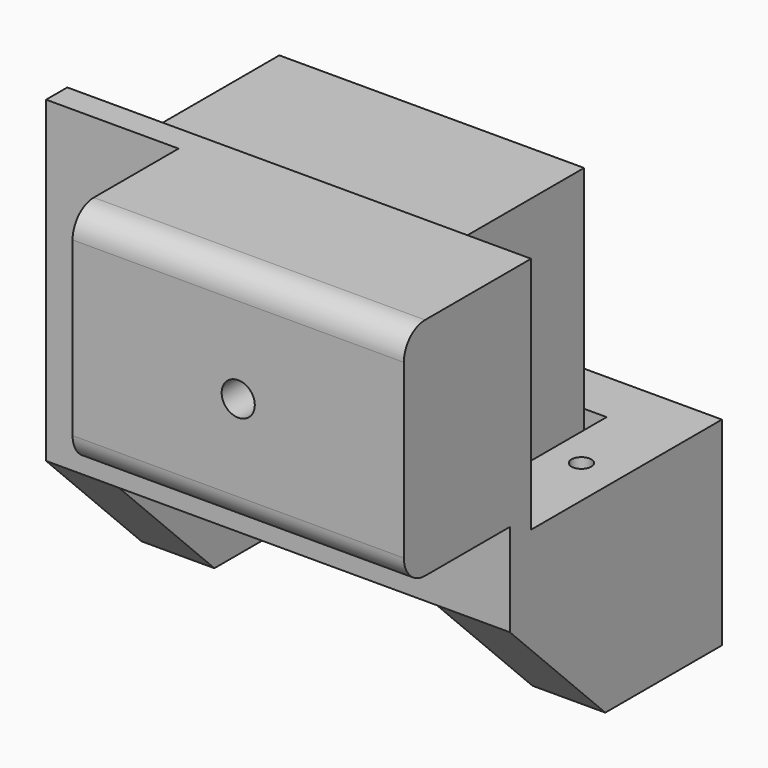
from build123d import *

# Parameters (mm, degrees)
BOX003_W               = 23
BOX003_H               = 12
BOX003_DEPTH           = 23
CYLINDER004_R          = 1.25
CYLINDER004_DEPTH      = 10
CYLINDER004_ROLL_ANGLE = 90
CYLINDER003_R          = 0.75
CYLINDER003_DEPTH      = 12
CYLINDER002_R          = 0.75
CYLINDER002_DEPTH      = 12
CYLINDER001_R          = 0.6
CYLINDER001_DEPTH      = 7
CYLINDER001_ROLL_ANGLE = 90
CYLINDER_R             = 1.1
CYLINDER_DEPTH         = 4
CYLINDER_ROLL_ANGLE    = 90
BOX_W                  = 5.5
BOX_H                  = 20
BOX_DEPTH              = 15
BOX006_W               = 35
BOX006_H               = 4
BOX006_DEPTH           = 15
BOX005_W               = 35
BOX005_H               = 2
BOX005_DEPTH           = 24
BOX004_W               = 5.5
BOX004_H               = 20
BOX004_DEPTH           = 15
CHAMFER_SIZE           = 9
BOX001_W               = 25
BOX001_H               = 10
BOX001_DEPTH           = 17
FILLET001_R            = 2


with BuildPart() as servo:
    # Box003 → Box003 (new body)
    with BuildSketch(Plane(origin=(-5, 13, -6.5), x_dir=(1, 0, 0), z_dir=(0, 0, 1))):
        with Locations((11.5, 6)):
            Rectangle(BOX003_W, BOX003_H)
    extrude(amount=BOX003_DEPTH)


with BuildPart() as cylinder004:
    # Cylinder004 → Cylinder004 (new body)
    with BuildSketch(Plane.XY):
        Circle(CYLINDER004_R)
    extrude(amount=CYLINDER004_DEPTH)


with BuildPart() as cylinder004_1:
    # Cylinder004 roll: moved
    add(cylinder004.part.rotate(Axis((0, 0, 0), (1, 0, 0)), CYLINDER004_ROLL_ANGLE))


with BuildPart() as cylinder004_2:
    # Cylinder004 placement: moved
    add(cylinder004_1.part.moved(Location((11.5, 10, 9))))


with BuildPart() as cylinder003:
    # Cylinder003 → Cylinder003 (new body)
    with BuildSketch(Plane(origin=(29, 0, 0), x_dir=(1, 0, 0), z_dir=(0, 0, 1))):
        Circle(CYLINDER003_R)
    extrude(amount=CYLINDER003_DEPTH)


with BuildPart() as fusion003:
    # Cylinder002 → Cylinder002 (new body)
    with BuildSketch(Plane.XY):
        Circle(CYLINDER002_R)
    extrude(amount=CYLINDER002_DEPTH)

    # Fusion003: union Cylinder003
    add(cylinder003.part)


with BuildPart() as fusion003_1:
    # Fusion003 placement: moved
    add(fusion003.part.moved(Location((-8, 21, -12))))


with BuildPart() as cylinder001:
    # Cylinder001 → Cylinder001 (new body)
    with BuildSketch(Plane.XY):
        Circle(CYLINDER001_R)
    extrude(amount=CYLINDER001_DEPTH)


with BuildPart() as cylinder001_1:
    # Cylinder001 roll: moved
    add(cylinder001.part.rotate(Axis((0, 0, 0), (1, 0, 0)), CYLINDER001_ROLL_ANGLE))


with BuildPart() as cylinder001_2:
    # Cylinder001 placement: moved
    add(cylinder001_1.part.moved(Location((0, 30.5, 0))))


with BuildPart() as fusion001:
    # Cylinder → Cylinder (new body)
    with BuildSketch(Plane.XY):
        Circle(CYLINDER_R)
    extrude(amount=CYLINDER_DEPTH)


with BuildPart() as fusion001_1:
    # Cylinder roll: moved
    add(fusion001.part.rotate(Axis((0, 0, 0), (1, 0, 0)), CYLINDER_ROLL_ANGLE))


with BuildPart() as fusion001_2:
    # Cylinder placement: moved
    add(fusion001_1.part.moved(Location((0, 30.5, 0))))

    # Fusion001: union Cylinder001
    add(cylinder001_2.part)


with BuildPart() as fusion001_3:
    # Fusion001 placement: moved
    add(fusion001_2.part.moved(Location((11, 1.5, -13.5))))


with BuildPart() as box:
    # Box → Box (new body)
    with BuildSketch(Plane(origin=(18.5, 10.5, -15.5), x_dir=(1, 0, 0), z_dir=(0, 0, 1))):
        with Locations((2.75, 10)):
            Rectangle(BOX_W, BOX_H)
    extrude(amount=BOX_DEPTH)


with BuildPart() as box006:
    # Box006 → Box006 (new body)
    with BuildSketch(Plane(origin=(-11, 26.5, -15.5), x_dir=(1, 0, 0), z_dir=(0, 0, 1))):
        with Locations((17.5, 2)):
            Rectangle(BOX006_W, BOX006_H)
    extrude(amount=BOX006_DEPTH)


with BuildPart() as box005:
    # Box005 → Box005 (new body)
    with BuildSketch(Plane(origin=(-11, 10.5, -6.5), x_dir=(1, 0, 0), z_dir=(0, 0, 1))):
        with Locations((17.5, 1)):
            Rectangle(BOX005_W, BOX005_H)
    extrude(amount=BOX005_DEPTH)


with BuildPart() as chamfer_body:
    # Box004 → Box004 (new body)
    with BuildSketch(Plane(origin=(-11, 10.5, -15.5), x_dir=(1, 0, 0), z_dir=(0, 0, 1))):
        with Locations((2.75, 10)):
            Rectangle(BOX004_W, BOX004_H)
    extrude(amount=BOX004_DEPTH)

    # Fusion: union Box, Box006, Box005
    add(box.part)
    add(box006.part)
    add(box005.part)

    # Cut: cut Fusion001
    add(fusion001_3.part, mode=Mode.SUBTRACT)

    # Chamfer
    chamfer_edges = [chamfer_body.edges().sort_by_distance(p)[0] for p in [
        (21.25, 10.5, -15.5),
        (-8.25, 10.5, -15.5),
    ]]
    chamfer(chamfer_edges, length=CHAMFER_SIZE)


with BuildPart() as cut002:
    # Box001 → Box001 (new body)
    with BuildSketch(Plane.XY.offset(1.5)):
        with Locations((12.5, 5)):
            Rectangle(BOX001_W, BOX001_H)
    extrude(amount=BOX001_DEPTH)

    # Fillet001
    fillet001_edges = [cut002.edges().sort_by_distance(p)[0] for p in [
        (12.5, 0, 1.5),
        (12.5, 0, 18.5),
    ]]
    fillet(fillet001_edges, radius=FILLET001_R)


with BuildPart() as cut002_1:
    # Fillet001 placement: moved
    add(cut002.part.moved(Location((-1, 0.5, -1))))

    # Fusion002: union Chamfer body
    add(chamfer_body.part)

    # Cut001: cut Fusion003
    add(fusion003_1.part, mode=Mode.SUBTRACT)

    # Cut002: cut Cylinder004
    add(cylinder004_2.part, mode=Mode.SUBTRACT)


solid = Compound([servo.part, cut002_1.part])
